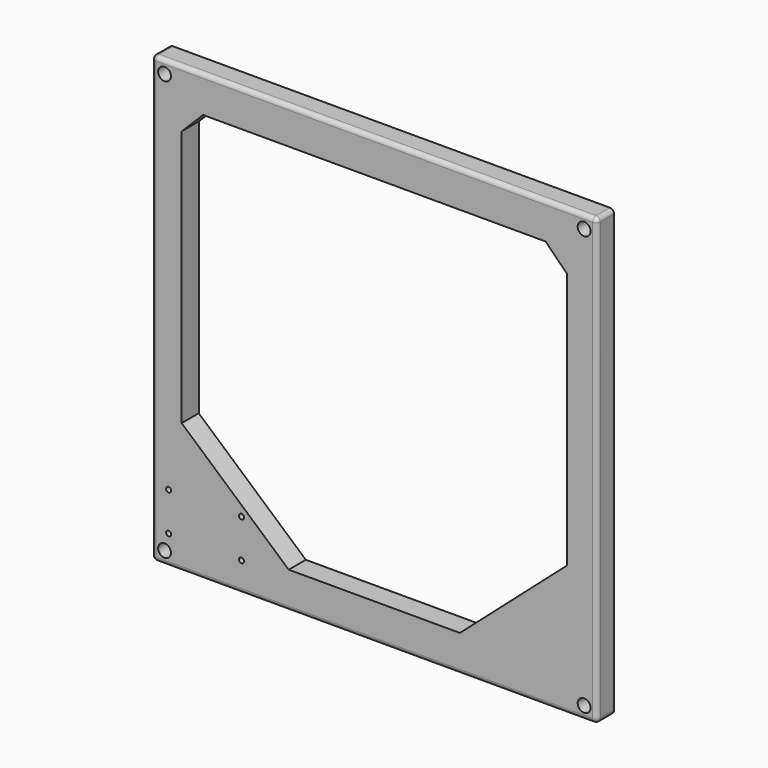
from build123d import *

# Parameters (mm, degrees)
F0_W      = 104
F0_H      = 104
F0_R      = 1.5
F2_DEPTH  = 5
F2_FACE_W = 104
F2_FACE_H = 104
F2_FACE_R = 1.5
F3_DEPTH  = 25
F4_R      = 1
F5_R      = 0.6
F6_DEPTH  = 25


with BuildPart() as f2:
    # F0 (on Front) → F2 (new body)
    with BuildSketch(Plane.XZ):
        Rectangle(F0_W, F0_H)
        with Locations((-49, -49)):
            Circle(F0_R, mode=Mode.SUBTRACT)
        with Locations((49, -49)):
            Circle(F0_R, mode=Mode.SUBTRACT)
        with Locations((-49, 49)):
            Circle(F0_R, mode=Mode.SUBTRACT)
        with Locations((49, 49)):
            Circle(F0_R, mode=Mode.SUBTRACT)
    extrude(amount=F2_DEPTH)

    # F1 (on Front) + F2_face (on face) → F3 (cut)
    with BuildSketch(Plane.XZ):
        Polygon((40, 43.5), (-40, 43.5), (-45, 38.5), (-45, -21.5), (-20, -43.5), (20, -43.5), (45, -21.5), (45, 38.5), align=None)
    with BuildSketch(Plane.XZ.offset(5)):
        Rectangle(F2_FACE_W, F2_FACE_H)
        with Locations((-49, -49)):
            Circle(F2_FACE_R, mode=Mode.SUBTRACT)
        with Locations((49, -49)):
            Circle(F2_FACE_R, mode=Mode.SUBTRACT)
        with Locations((-49, 49)):
            Circle(F2_FACE_R, mode=Mode.SUBTRACT)
        with Locations((49, 49)):
            Circle(F2_FACE_R, mode=Mode.SUBTRACT)
    extrude(amount=F3_DEPTH, mode=Mode.SUBTRACT)

    # F4
    f4_edges = [f2.edges().sort_by_distance(p)[0] for p in [
        (-52, -2.5, 52),
        (-52, -5, 0),
        (0, -5, 52),
        (-52, -2.5, -52),
        (0, -5, -52),
        (52, -5, 0),
        (52, -2.5, 52),
        (52, -2.5, -52),
    ]]
    fillet(f4_edges, radius=F4_R)

    # F5 (on face) → F6 (cut)
    with BuildSketch(Plane.XZ.offset(5)):
        with Locations((-48.035103, -36.183678)):
            Circle(F5_R)
        with Locations((-48.035103, -45.183678)):
            Circle(F5_R)
        with Locations((-31.035103, -36.183678)):
            Circle(F5_R)
        with Locations((-31.035103, -45.183678)):
            Circle(F5_R)
    extrude(amount=-F6_DEPTH, mode=Mode.SUBTRACT)


solid = f2.part
